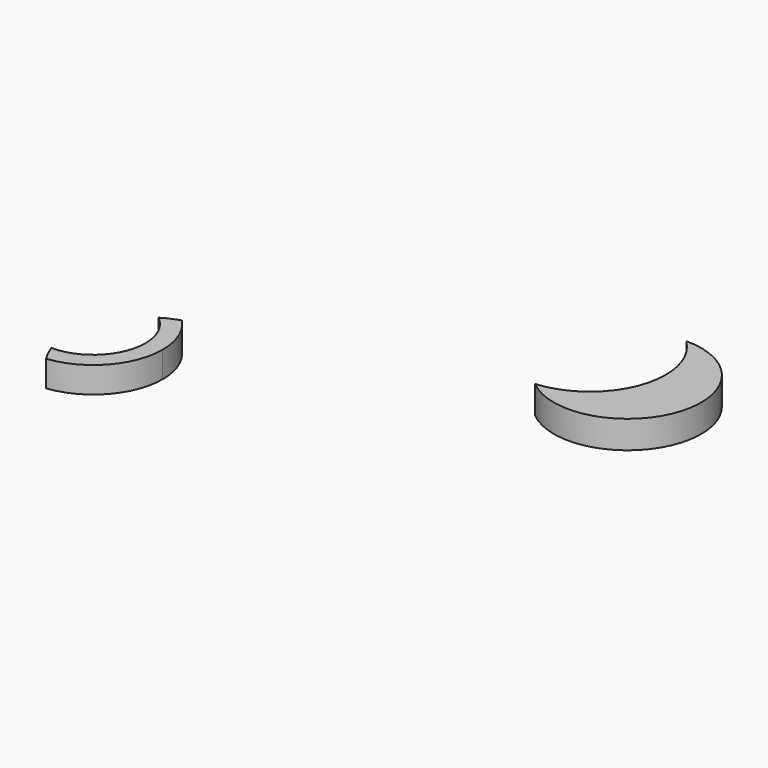
from build123d import *

# Parameters (mm, degrees)
F1_DEPTH = 3
F5_DEPTH = 3
F6_DEPTH = 3.2


with BuildPart() as f1:
    # F0 (on Top) → F1 (new body)
    with BuildSketch(Plane.XY):
        with BuildLine():
            Line((-40.4015687406, 36.8140898645), (-40.4015687406, 43.3875212363))
            ThreePointArc((-40.4015687406, 43.3875212363), (-46.4015687406, 45.7140898645), (-52.4015687406, 43.3875212363))
            Line((-52.4015687406, 43.3875212363), (-52.4015687406, 36.8140898645))
            Line((-52.4015687406, 36.8140898645), (-52.1643805543, 36.8140898645))
            ThreePointArc((-52.1643805543, 36.8140898645), (-46.4015687406, 40.9140898645), (-40.6387569269, 36.8140898645))
            Line((-40.6387569269, 36.8140898645), (-40.4015687406, 36.8140898645))
        make_face()
    extrude(amount=F1_DEPTH)


with BuildPart() as f5:
    # F2 (on Top) → F5 (new body)
    with BuildSketch(Plane.XY):
        with BuildLine():
            ThreePointArc((-32.7367236912, -23.1343470514), (-33.3127223538, -20.1537088408), (-34.9577747267, -17.602281536))
            ThreePointArc((-34.9577747267, -17.602281536), (-35.972667649, -17.9882107323), (-36.9336995487, -18.4935489119))
            ThreePointArc((-36.9336995487, -18.4935489119), (-35.3137104672, -20.5670668617), (-34.7367236912, -23.1343470514))
            ThreePointArc((-34.7367236912, -23.1343470514), (-36.5085976414, -27.3914528883), (-40.7777070602, -29.13420708))
            ThreePointArc((-40.7777070602, -29.13420708), (-40.3615238643, -30.1370732404), (-39.8276001695, -31.0825225919))
            ThreePointArc((-39.8276001695, -31.0825225919), (-34.7670927071, -28.4600869918), (-32.7367236912, -23.1343470514))
        make_face()
    extrude(amount=F5_DEPTH)


with BuildPart() as f6:
    # F3 (on Top) → F6 (new body)
    with BuildSketch(Plane.XY):
        with BuildLine():
            ThreePointArc((-2.1653392936, -7.7060639193), (6.8879251173, -8.8909829108), (11.7917856768, -1.189179153))
            ThreePointArc((11.7917856768, -1.189179153), (9.2907984687, 4.8326017732), (3.2595867301, 7.3107598602))
            ThreePointArc((3.2595867301, 7.3107598602), (5.233662666, 4.4363655949), (5.9284694199, 1.0192964169))
            ThreePointArc((5.9284694199, 1.0192964169), (3.5934586544, -4.9313685142), (-2.1653392936, -7.7060639193))
        make_face()
    extrude(amount=F6_DEPTH)


solid = Compound([f5.part, f6.part])
